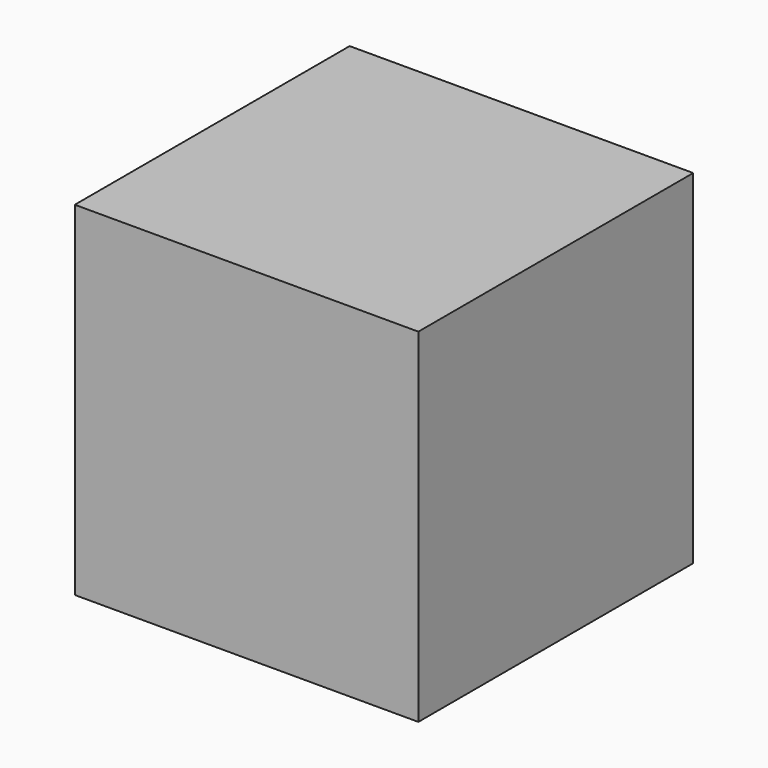
from build123d import *

# Parameters (mm, degrees)
F0_W     = 20
F0_H     = 20
F1_DEPTH = 10
F2_T     = -1


with BuildPart() as f1:
    # F0 (on Front) → F1 (new body, symmetric)
    with BuildSketch(Plane.XZ):
        Rectangle(F0_W, F0_H)
    extrude(amount=F1_DEPTH, both=True)

    # F2 (hollow: no face is removed)
    offset(amount=F2_T, mode=Mode.SUBTRACT)


solid = f1.part
